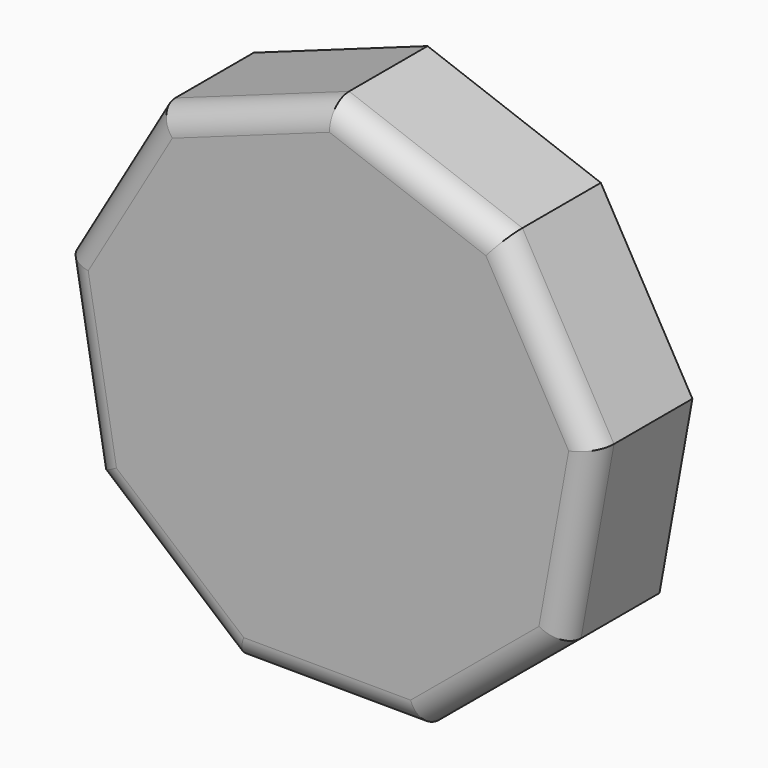
from build123d import *

# Parameters (mm, degrees)
F1_DEPTH = 25
F2_R     = 5


with BuildPart() as f1:
    # F0 (on Front) → F1 (new body)
    with BuildSketch(Plane.XZ):
        Polygon((18.595429, -51.854381), (47.576278, -27.769849), (54.295658, 9.308504), (35.609496, 42.031304), (0.261255, 55.08719), (-35.20923, 42.367167), (-54.204925, 9.823076), (-47.837534, -27.317341), (-19.086428, -51.675671), align=None)
    extrude(amount=F1_DEPTH)

    # F2
    f2_edges = [f1.edges().sort_by_distance(p)[0] for p in [
        (33.085854, -25, -39.812115),
        (50.935968, -25, -9.230672),
        (44.952577, -25, 25.669904),
        (17.935376, -25, 48.559247),
        (-17.473987, -25, 48.727179),
        (-44.707078, -25, 26.095122),
        (-51.02123, -25, -8.747133),
        (-33.461981, -25, -39.496506),
        (-0.2455, -25, -51.765026),
    ]]
    fillet(f2_edges, radius=F2_R)


solid = f1.part
